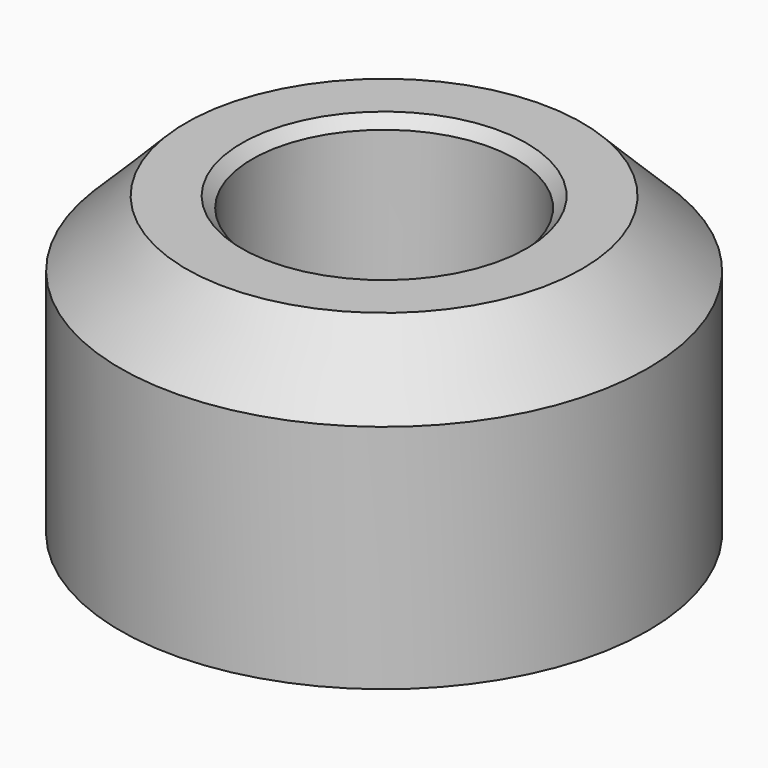
from build123d import *

# Parameters (mm, degrees)
F0_R     = 6.35
F0_R_2   = 3.175
F1_DEPTH = 7.14375
F2_SIZE  = 1.5875
F3_SIZE  = 0.254


with BuildPart() as f1:
    # F0 (on Top) → F1 (new body)
    with BuildSketch(Plane.XY):
        Circle(F0_R)
        Circle(F0_R_2, mode=Mode.SUBTRACT)
    extrude(amount=F1_DEPTH)

    # F2
    f2_edges = [f1.edges().sort_by_distance(p)[0] for p in [
        (-6.35, 0, 7.14375),
    ]]
    chamfer(f2_edges, length=F2_SIZE)

    # F3
    f3_edges = [f1.edges().sort_by_distance(p)[0] for p in [
        (-3.175, 0, 7.14375),
        (-3.175, 0, 0),
    ]]
    chamfer(f3_edges, length=F3_SIZE)


solid = f1.part
